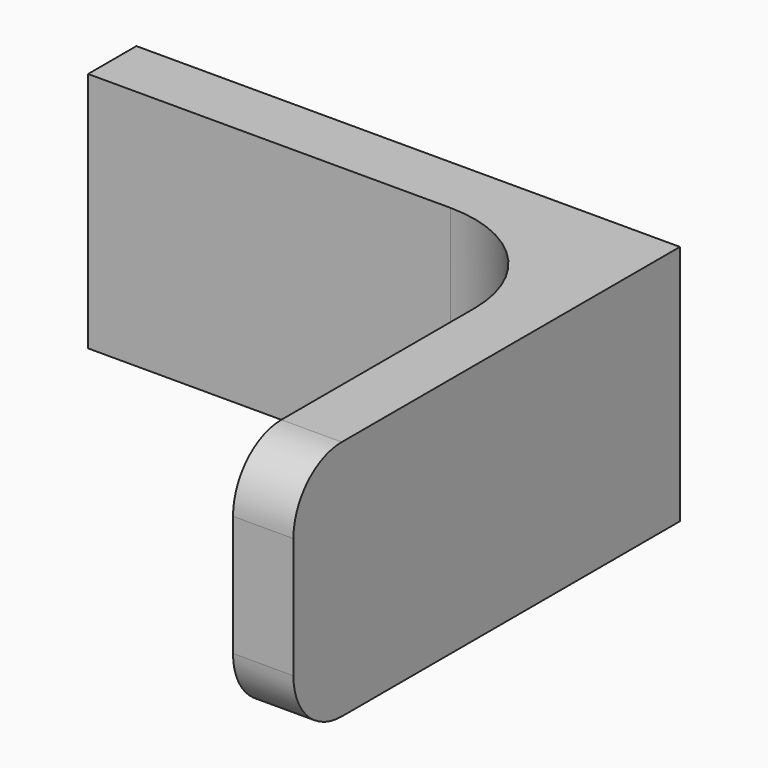
from build123d import *

# Parameters (mm, degrees)
F1_DEPTH = 20
F2_R     = 5


with BuildPart() as f1:
    # F0 (on Top) → F1 (new body)
    with BuildSketch(Plane.XY):
        with BuildLine():
            Line((22.5, 0), (0, 0))
            Line((0, 0), (-22.5, 0))
            Line((-22.5, 0), (-22.5, -5))
            Line((-22.5, -5), (7.5, -5))
            ThreePointArc((7.5, -5), (14.571068, -7.928932), (17.5, -15))
            Line((17.5, -15), (17.5, -40))
            Line((17.5, -40), (22.5, -40))
            Line((22.5, -40), (22.5, 0))
        make_face()
    extrude(amount=F1_DEPTH)

    # F2
    f2_edges = [f1.edges().sort_by_distance(p)[0] for p in [
        (20, -40, 20),
        (20, -40, 0),
    ]]
    fillet(f2_edges, radius=F2_R)


solid = f1.part
